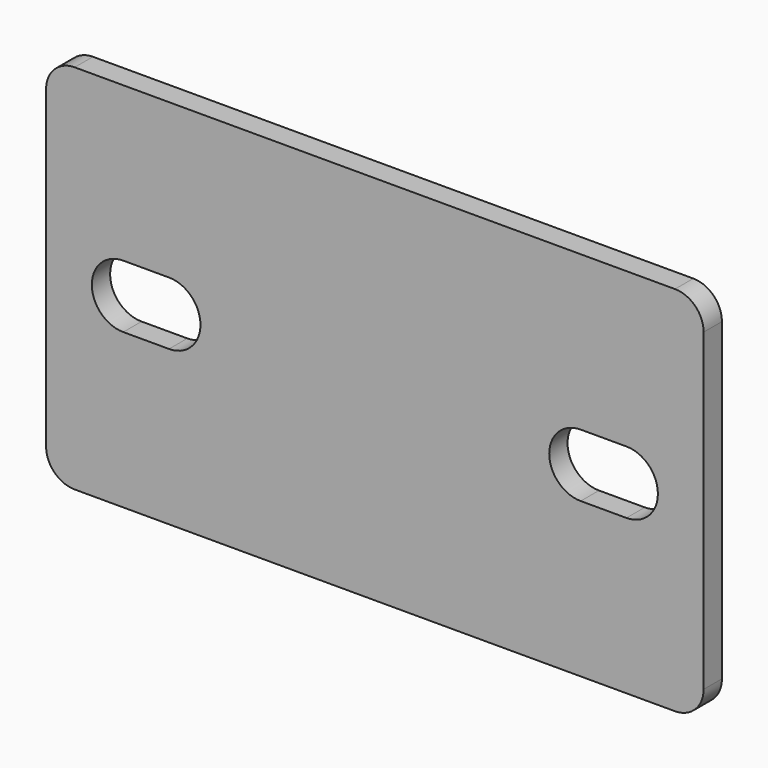
from build123d import *

# Parameters (mm, degrees)
F0_W     = 115
F0_H     = 65
F1_DEPTH = 4
F2_R     = 5


with BuildPart() as f1:
    # F0 (on Front) → F1 (new body)
    with BuildSketch(Plane.XZ):
        Rectangle(F0_W, F0_H)
        with BuildLine():
            ThreePointArc((-36, 5.5), (-30.5, 0), (-36, -5.5))
            Line((-36, -5.5), (-44, -5.5))
            ThreePointArc((-44, -5.5), (-49.5, 0), (-44, 5.5))
            Line((-44, 5.5), (-36, 5.5))
        make_face(mode=Mode.SUBTRACT)
        with BuildLine():
            Line((44, -5.5), (36, -5.5))
            ThreePointArc((36, -5.5), (30.5, 0), (36, 5.5))
            Line((36, 5.5), (44, 5.5))
            ThreePointArc((44, 5.5), (49.5, 0), (44, -5.5))
        make_face(mode=Mode.SUBTRACT)
    extrude(amount=F1_DEPTH)

    # F2
    f2_edges = [f1.edges().sort_by_distance(p)[0] for p in [
        (-57.5, -2, -32.5),
        (-57.5, -2, 32.5),
        (57.5, -2, -32.5),
        (57.5, -2, 32.5),
    ]]
    fillet(f2_edges, radius=F2_R)


solid = f1.part
